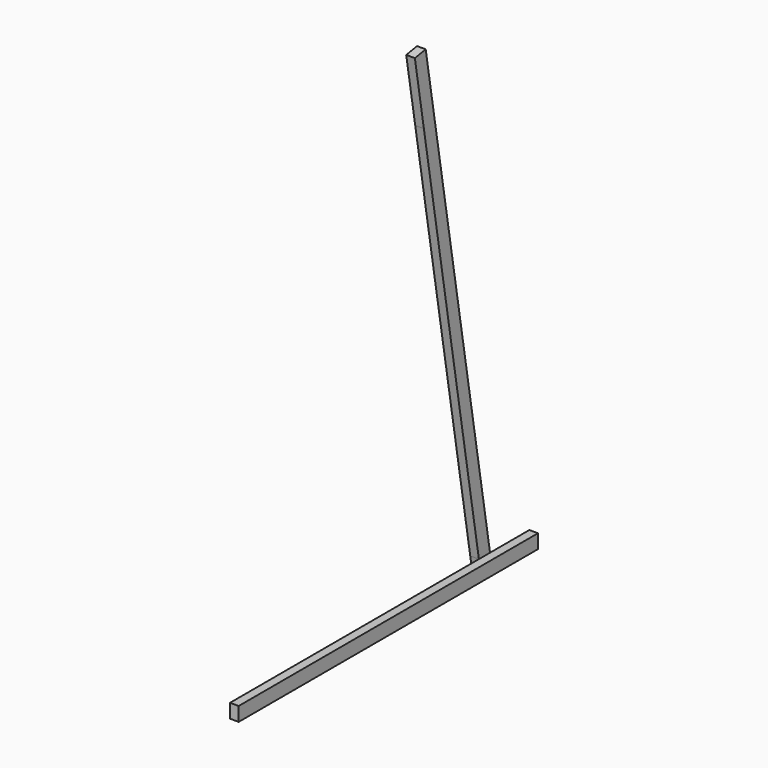
from build123d import *

# Parameters (mm, degrees)
F1_DEPTH = 37
F2_DEPTH = 37


with BuildPart() as f1:
    # F0 (on Right) → F1 (new body)
    with BuildSketch(Plane.YZ):
        Polygon((-600, -2050), (-589.859565, -1990), (-800, -1990), (-800, -2050), align=None)
        Polygon((0, -1990), (-589.859565, -1990), (-600, -2050), (0, -2050), align=None)
        Polygon((530.365877, -1990), (0, -1990), (0, -2050), (540.506312, -2050), align=None)
        Polygon((589.859565, -1990), (530.365877, -1990), (540.506312, -2050), (598.347846, -2040.224362), align=None)
        Polygon((800, -1990), (589.859565, -1990), (598.347846, -2040.224362), (600, -2050), (800, -2050), align=None)
        Polygon((598.347846, -2040.224362), (540.506312, -2050), (600, -2050), align=None)
    extrude(amount=F1_DEPTH)

    # F0 (on Right) → F2 (join)
    with BuildSketch(Plane.YZ):
        Polygon((188.075704, 35.298803), (236.291578, -249.989995), (295.785267, -249.989995), (245.917239, 45.074441), align=None)
        Polygon((295.785267, -249.989995), (236.291578, -249.989995), (530.365877, -1990), (589.859565, -1990), align=None)
        Polygon((589.859565, -1990), (530.365877, -1990), (540.506312, -2050), (598.347846, -2040.224362), align=None)
    extrude(amount=-F2_DEPTH)


solid = f1.part
